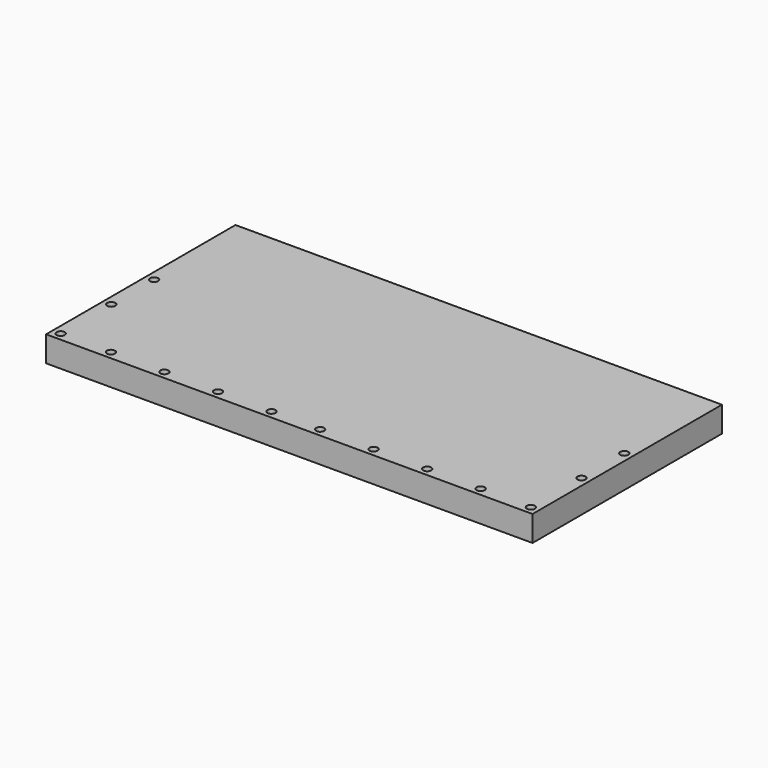
from build123d import *

# Parameters (mm, degrees)
F0_W      = 150
F0_H      = 73
F1_DEPTH  = 7.873
F2_W      = 136
F2_H      = 63
F3_DEPTH  = 4.873
F4_W      = 2.5
F4_H      = 4.873
F5_DEPTH  = 73
F6_W      = 6.5
F6_H      = 0.623
F7_DEPTH  = 2.5
F8_R      = 1.25
F9_DEPTH  = 7.873
F10_R     = 1.25
F11_DEPTH = 7.873
F12_R     = 1.25
F13_DEPTH = 7.873
F14_R     = 1.25
F15_DEPTH = 7.873
F16_R     = 1.25
F17_DEPTH = 7.873
F18_R     = 1.25
F19_DEPTH = 7.873
F20_R     = 1.25
F21_DEPTH = 7.873
F22_R     = 1.25
F23_DEPTH = 7.873
F24_R     = 1.25
F25_DEPTH = 7.873
F26_R     = 1.25
F27_DEPTH = 7.873
F28_R     = 1.25
F29_DEPTH = 7.873
F30_R     = 1.25
F31_DEPTH = 7.873
F32_R     = 1.25
F33_DEPTH = 7.873
F34_R     = 1.25
F35_DEPTH = 7.873


with BuildPart() as f1:
    # F0 (on Top) → F1 (new body)
    with BuildSketch(Plane.XY):
        with Locations((75, 36.5)):
            Rectangle(F0_W, F0_H)
    extrude(amount=F1_DEPTH)

    # F2 (on Top) → F3 (cut)
    with BuildSketch(Plane.XY):
        with Locations((75, 36.5)):
            Rectangle(F2_W, F2_H)
    extrude(amount=F3_DEPTH, mode=Mode.SUBTRACT)

    # F4 (on Front) → F5 (join)
    with BuildSketch(Plane.XZ):
        with Locations((75, 2.4365)):
            Rectangle(F4_W, F4_H)
    extrude(amount=-F5_DEPTH)

    # F6 (on face) → F7 (cut)
    with BuildSketch(Plane(origin=(73.75, 0, 0), x_dir=(0, -1, 0), z_dir=(-1, 0, 0))):
        with Locations((-36.5, 0.3115)):
            Rectangle(F6_W, F6_H)
    extrude(amount=-F7_DEPTH, mode=Mode.SUBTRACT)

    # F8 (on face) → F9 (cut)
    with BuildSketch(Plane.XY.offset(7.873)):
        with Locations((2.5, 2.5)):
            Circle(F8_R)
    extrude(amount=-F9_DEPTH, mode=Mode.SUBTRACT)

    # F10 (on face) → F11 (cut)
    with BuildSketch(Plane.XY.offset(7.873)):
        with Locations((18, 2.5)):
            Circle(F10_R)
    extrude(amount=-F11_DEPTH, mode=Mode.SUBTRACT)

    # F12 (on face) → F13 (cut)
    with BuildSketch(Plane.XY.offset(7.873)):
        with Locations((34.5, 2.5)):
            Circle(F12_R)
    extrude(amount=-F13_DEPTH, mode=Mode.SUBTRACT)

    # F14 (on face) → F15 (cut)
    with BuildSketch(Plane.XY.offset(7.873)):
        with Locations((51, 2.5)):
            Circle(F14_R)
    extrude(amount=-F15_DEPTH, mode=Mode.SUBTRACT)

    # F16 (on face) → F17 (cut)
    with BuildSketch(Plane.XY.offset(7.873)):
        with Locations((67.5, 2.5)):
            Circle(F16_R)
    extrude(amount=-F17_DEPTH, mode=Mode.SUBTRACT)

    # F18 (on face) → F19 (cut)
    with BuildSketch(Plane.XY.offset(7.873)):
        with Locations((82.5, 2.5)):
            Circle(F18_R)
    extrude(amount=-F19_DEPTH, mode=Mode.SUBTRACT)

    # F20 (on face) → F21 (cut)
    with BuildSketch(Plane.XY.offset(7.873)):
        with Locations((99, 2.5)):
            Circle(F20_R)
    extrude(amount=-F21_DEPTH, mode=Mode.SUBTRACT)

    # F22 (on face) → F23 (cut)
    with BuildSketch(Plane.XY.offset(7.873)):
        with Locations((115.5, 2.5)):
            Circle(F22_R)
    extrude(amount=-F23_DEPTH, mode=Mode.SUBTRACT)

    # F24 (on face) → F25 (cut)
    with BuildSketch(Plane.XY.offset(7.873)):
        with Locations((132, 2.5)):
            Circle(F24_R)
    extrude(amount=-F25_DEPTH, mode=Mode.SUBTRACT)

    # F26 (on face) → F27 (cut)
    with BuildSketch(Plane.XY.offset(7.873)):
        with Locations((147.5, 2.5)):
            Circle(F26_R)
    extrude(amount=-F27_DEPTH, mode=Mode.SUBTRACT)

    # F28 (on face) → F29 (cut)
    with BuildSketch(Plane.XY.offset(7.873)):
        with Locations((2.5, 22)):
            Circle(F28_R)
    extrude(amount=-F29_DEPTH, mode=Mode.SUBTRACT)

    # F30 (on face) → F31 (cut)
    with BuildSketch(Plane.XY.offset(7.873)):
        with Locations((147.5, 22)):
            Circle(F30_R)
    extrude(amount=-F31_DEPTH, mode=Mode.SUBTRACT)

    # F32 (on face) → F33 (cut)
    with BuildSketch(Plane.XY.offset(7.873)):
        with Locations((147.5, 38.5)):
            Circle(F32_R)
    extrude(amount=-F33_DEPTH, mode=Mode.SUBTRACT)

    # F34 (on face) → F35 (cut)
    with BuildSketch(Plane.XY.offset(7.873)):
        with Locations((2.5, 38.5)):
            Circle(F34_R)
    extrude(amount=-F35_DEPTH, mode=Mode.SUBTRACT)


solid = f1.part
